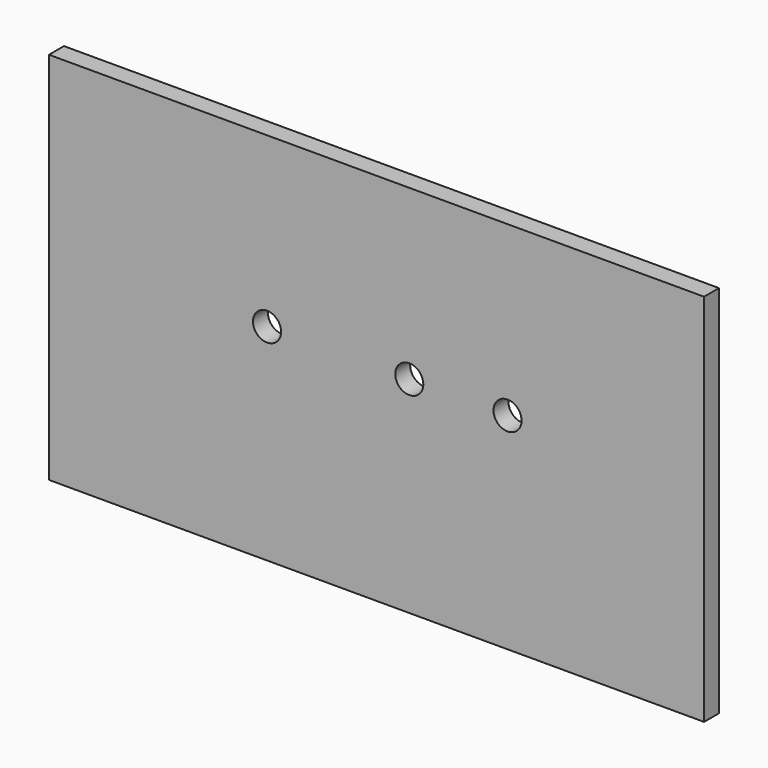
from build123d import *

# Parameters (mm, degrees)
F0_W     = 350
F0_H     = 200
F0_R     = 7.5
F1_DEPTH = 10


with BuildPart() as f1:
    # F0 (on Front) → F1 (new body)
    with BuildSketch(Plane.XZ):
        Rectangle(F0_W, F0_H)
        with Locations((-58.5, 10)):
            Circle(F0_R, mode=Mode.SUBTRACT)
        with Locations((17.5, 10)):
            Circle(F0_R, mode=Mode.SUBTRACT)
        with Locations((70, 10)):
            Circle(F0_R, mode=Mode.SUBTRACT)
    extrude(amount=F1_DEPTH)


solid = f1.part
